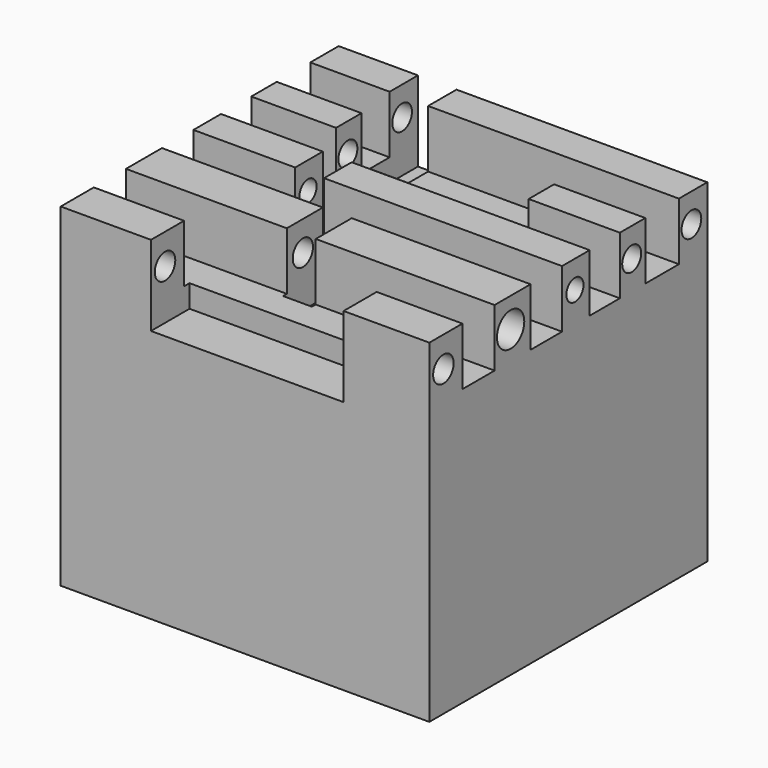
from build123d import *

# Parameters (mm, degrees)
F0_W     = 114.8236654699
F0_H     = 108.2134023309
F1_DEPTH = 104
F2_W     = 12.52374053
F2_H     = 20.7482948899
F2_W_2   = 12.2485402972
F2_H_2   = 20.5613672733
F2_W_3   = 11.7760580033
F2_W_4   = 13.0845084786
F3_DEPTH = 114.8246654699
F4_W     = 60
F4_H     = 17.0350422454
F4_W_2   = 9
F4_H_2   = 18.0536039271
F4_H_3   = 18.2386368836
F4_H_4   = 17.2398763835
F4_W_3   = 12
F4_H_5   = 23.2148324465
F5_DEPTH = 25
F6_R     = 3.9918066597
F6_R_2   = 3.9469258839
F6_R_3   = 3.3313946803
F6_R_4   = 3.8357142578
F6_R_5   = 3.700614932
F7_DEPTH = 114.8246654699
F8_R     = 5.3166490127
F9_DEPTH = 15.7


with BuildPart() as f1:
    # F0 (on Top) → F1 (new body)
    with BuildSketch(Plane.XY):
        with Locations((13.4518984705, 2.4405606091)):
            Rectangle(F0_W, F0_H)
    extrude(amount=F1_DEPTH)

    # F2 (on face) → F3 (cut, through all)
    with BuildSketch(Plane.YZ.offset(70.8637312055)):
        with Locations((-32.5295254588, 96.3900126517)):
            Rectangle(F2_W, F2_H)
        with Locations((-6.1242701486, 96.2965488434)):
            Rectangle(F2_W_2, F2_H_2)
        with Locations((16.6308367625, 96.3900126517)):
            Rectangle(F2_W_3, F2_H)
        with Locations((38.9679595828, 96.2965488434)):
            Rectangle(F2_W_4, F2_H_2)
    extrude(amount=-F3_DEPTH, mode=Mode.SUBTRACT)

    # F4 (on face) → F5 (cut)
    with BuildSketch(Plane.XY.offset(104)):
        with Locations((14.153456504, -45.1724111309)):
            Rectangle(F4_W, F4_H)
        with Locations((10.6519766077, -18.7213037212)):
            Rectangle(F4_W_2, F4_H_2)
        with Locations((-7.7669977982, 4.9567892806)):
            Rectangle(F4_W_2, F4_H_3)
        with Locations((12.4489111735, 26.4460458092)):
            Rectangle(F4_W, F4_H_4)
        with Locations((-13.255634157, 49.3767052152)):
            Rectangle(F4_W_3, F4_H_5)
    extrude(amount=-F5_DEPTH, mode=Mode.SUBTRACT)

    # F6 (on face) → F7 (cut, through all)
    with BuildSketch(Plane.YZ.offset(70.8637312055)):
        with Locations((-46.1977943778, 94.5423319936)):
            Circle(F6_R)
        with Locations((-20.0246851891, 94.7679579258)):
            Circle(F6_R_2)
        with Locations((5.0202719867, 95.4448506236)):
            Circle(F6_R_3)
        with Locations((50.3719523549, 94.9935913086)):
            Circle(F6_R_4)
        with Locations((27.132038027, 94.9935913086)):
            Circle(F6_R_5)
    extrude(amount=-F7_DEPTH, mode=Mode.SUBTRACT)

    # F8 (on face) → F9 (cut)
    with BuildSketch(Plane.YZ.offset(70.8637312055)):
        with Locations((-20.0246851891, 94.7679579258)):
            Circle(F8_R)
    extrude(amount=-F9_DEPTH, mode=Mode.SUBTRACT)


solid = f1.part
